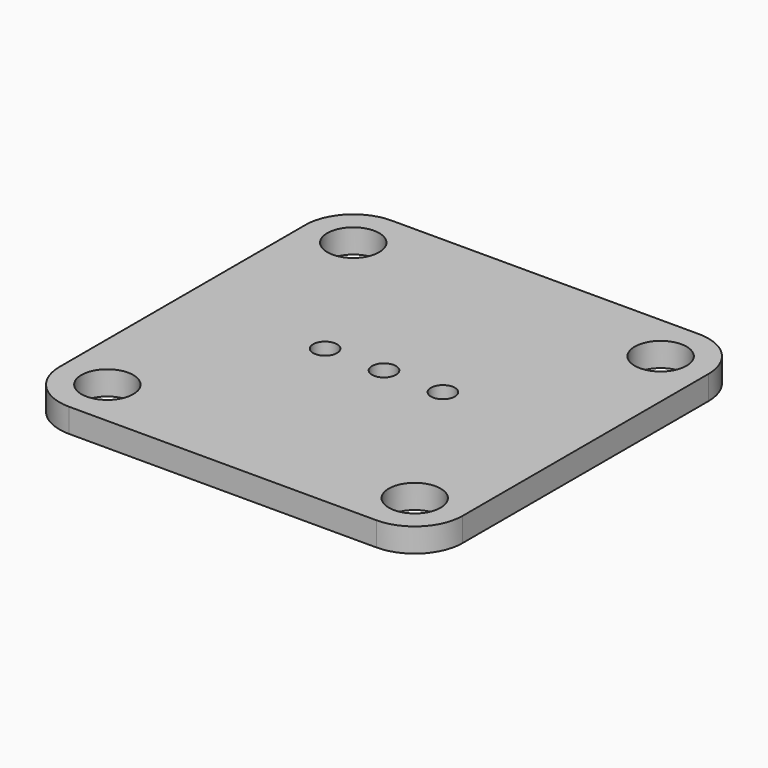
from build123d import *

# Parameters (mm, degrees)
F0_R     = 3.25
F0_R_2   = 1.5
F1_DEPTH = 3


with BuildPart() as f1:
    # F0 (on Top) → F1 (new body)
    with BuildSketch(Plane.XY):
        with BuildLine():
            Line((-13.232693, 17.157822), (-51.732693, 17.157822))
            ThreePointArc((-51.732693, 17.157822), (-55.975334, 15.400463), (-57.732693, 11.157822))
            Line((-57.732693, 11.157822), (-57.732693, -27.342178))
            ThreePointArc((-57.732693, -27.342178), (-55.975334, -31.584819), (-51.732693, -33.342178))
            Line((-51.732693, -33.342178), (-13.232693, -33.342178))
            ThreePointArc((-13.232693, -33.342178), (-8.990052, -31.584819), (-7.232693, -27.342178))
            Line((-7.232693, -27.342178), (-7.232693, 11.157822))
            ThreePointArc((-7.232693, 11.157822), (-8.990052, 15.400463), (-13.232693, 17.157822))
        make_face()
        with Locations((-51.732693, -27.342178)):
            Circle(F0_R, mode=Mode.SUBTRACT)
        with Locations((-39.862693, -8.092178)):
            Circle(F0_R_2, mode=Mode.SUBTRACT)
        with Locations((-32.482693, -8.092178)):
            Circle(F0_R_2, mode=Mode.SUBTRACT)
        with Locations((-13.232693, -27.342178)):
            Circle(F0_R, mode=Mode.SUBTRACT)
        with Locations((-25.102693, -8.092178)):
            Circle(F0_R_2, mode=Mode.SUBTRACT)
        with Locations((-51.732693, 11.157822)):
            Circle(F0_R, mode=Mode.SUBTRACT)
        with Locations((-13.232693, 11.157822)):
            Circle(F0_R, mode=Mode.SUBTRACT)
    extrude(amount=F1_DEPTH)


solid = f1.part
